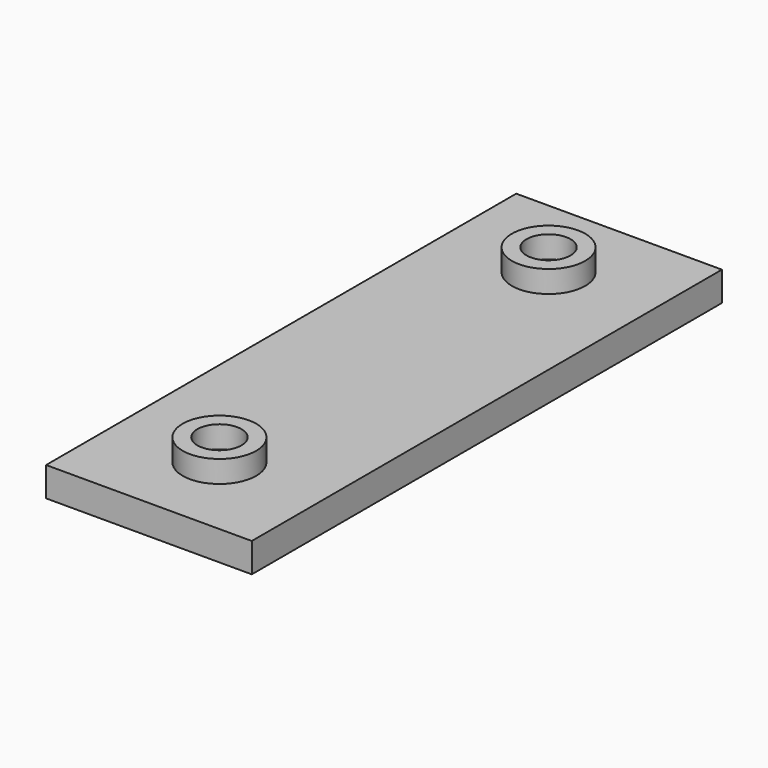
from build123d import *

# Parameters (mm, degrees)
F0_W          = 14
F0_H          = 2
F1_DEPTH      = 20
F1_DEPTH_BACK = 20
F2_R          = 2.5
F2_R_2        = 1.5
F3_DEPTH      = 1.5


with BuildPart() as f1:
    # F0 (on Front) → F1 (new body, two sides)
    with BuildSketch(Plane.XZ) as f1_sk:
        with Locations((0, 1)):
            Rectangle(F0_W, F0_H)
    extrude(amount=F1_DEPTH)
    extrude(f1_sk.sketch, amount=-F1_DEPTH_BACK)

    # F2 (on face) → F3 (join)
    with BuildSketch(Plane.XY.offset(2)):
        with Locations((0, 14)):
            Circle(F2_R)
        with Locations((0, 14)):
            Circle(F2_R_2, mode=Mode.SUBTRACT)
        with Locations((0, -14)):
            Circle(F2_R)
        with Locations((0, -14)):
            Circle(F2_R_2, mode=Mode.SUBTRACT)
    extrude(amount=F3_DEPTH)


solid = f1.part
